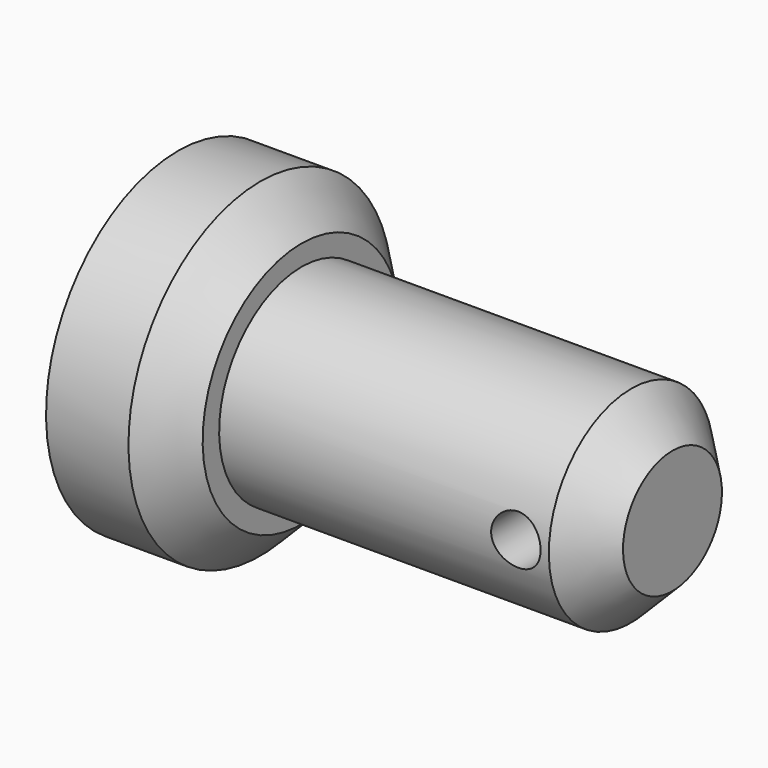
from build123d import *

# Parameters (mm, degrees)
F2_SIZE       = 10
F3_SIZE       = 10
F4_R          = 6
F5_DEPTH      = 40.001
F5_DEPTH_BACK = 40.001


with BuildPart() as f1:
    # F0 (on Front) → F1 (revolve)
    with BuildSketch(Plane.XZ):
        Polygon((-120, 40), (-120, 0), (0, 0), (0, 25), (-90, 25), (-90, 40), align=None)
    revolve(axis=Axis((-60, 0, 0), (1, 0, 0)))

    # F2
    f2_edges = [f1.edges().sort_by_distance(p)[0] for p in [
        (-90, 0, -40),
    ]]
    chamfer(f2_edges, length=F2_SIZE)

    # F3
    f3_edges = [f1.edges().sort_by_distance(p)[0] for p in [
        (0, 0, -25),
    ]]
    chamfer(f3_edges, length=F3_SIZE)

    # F4 (on Front) → F5 (cut, two sides)
    with BuildSketch(Plane.XZ) as f5_sk:
        with Locations((-18, 0)):
            Circle(F4_R)
    extrude(amount=-F5_DEPTH, mode=Mode.SUBTRACT)
    extrude(f5_sk.sketch, amount=F5_DEPTH_BACK, mode=Mode.SUBTRACT)


solid = f1.part
